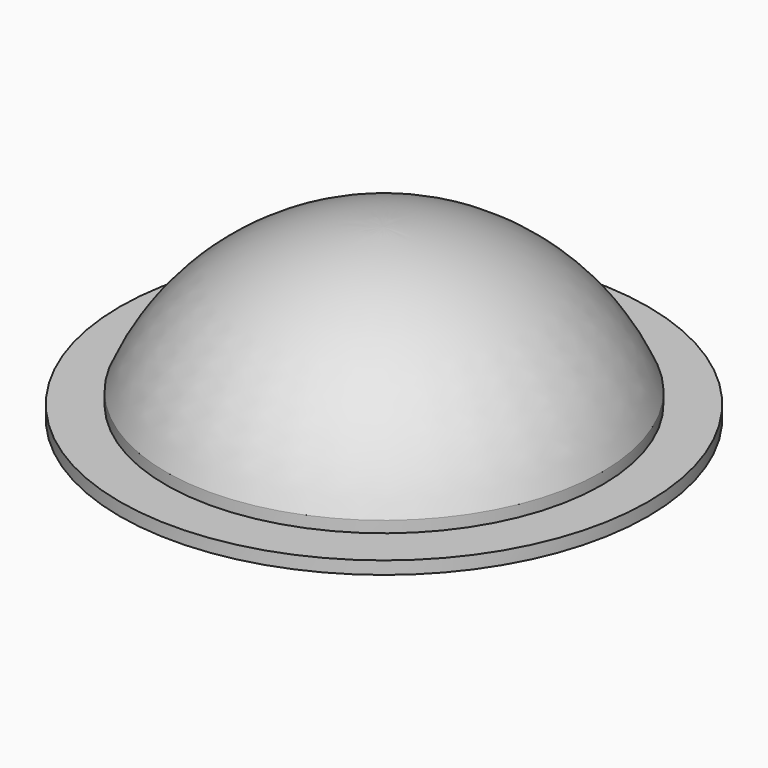
from build123d import *


with BuildPart() as f1:
    # F0 (on Front) → F1 (revolve)
    with BuildSketch(Plane.XZ):
        with BuildLine():
            Line((17.022796, 4.020631), (17.022796, 4.912374))
            ThreePointArc((17.022796, 4.912374), (10.203858, 13.099955), (0, 16.168452))
            Line((0, 16.168452), (0, 3.020631))
            Line((0, 3.020631), (20.599609, 3.020631))
            Line((20.599609, 3.020631), (20.599609, 4.020631))
            Line((20.599609, 4.020631), (18.599609, 4.020631))
            Line((18.599609, 4.020631), (17.022796, 4.020631))
        make_face()
    revolve(axis=Axis((0, 0, 9.594542), (0, 0, 1)))


solid = f1.part
